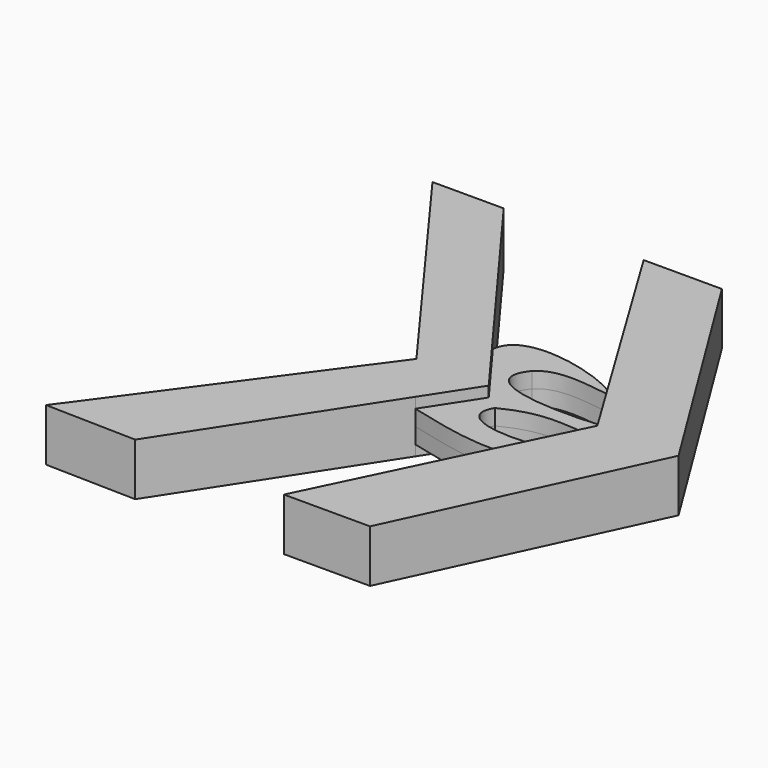
from build123d import *

# Parameters (mm, degrees)
F1_DEPTH = 6.35
F2_DEPTH = 3.81


with BuildPart() as f1:
    # F0 (on Top) → F1 (new body, symmetric)
    with BuildSketch(Plane.XY):
        Polygon((-46.712562, 58.420129), (-63.956755, 58.420129), (-21.119518, 0), (-63.956755, -58.494772), (-41.975848, -59.009422), (-11.575939, -12.254042), (-3.608476, 0), (-15.405033, 15.988192), align=None)
        Polygon((-12.845065, 58.420129), (13.556774, 15.003269), (20.028991, 4.359945), (22.680279, 0), (18.179935, -9.266904), (15.212491, -15.37733), (-5.976832, -59.009422), (14.864704, -59.009422), (42.337634, 0), (6.101783, 58.420129), align=None)
    extrude(amount=F1_DEPTH, both=True)


with BuildPart() as f2:
    # F0 (on Top) → F2 (new body, symmetric)
    with BuildSketch(Plane.XY):
        with BuildLine():
            add(Edge.make_bspline(
                [(-15.405033, 15.988192), (-14.266079, 26.961915), (11.257898, 18.783688), (13.556774, 15.003269)],
                knots=[0, 0, 0, 0, 28.97855, 28.97855, 28.97855, 28.97855], degree=3))
            Line((-15.405033, 15.988192), (-3.608476, 0))
            Line((-3.608476, 0), (-11.575939, -12.254042))
            add(Edge.make_bspline(
                [(-11.575939, -12.254042), (-2.897969, -14.484319), (7.522797, -17.089512), (15.212491, -15.37733)],
                knots=[0, 0, 0, 0, 26.969889, 26.969889, 26.969889, 26.969889], degree=3))
            Line((15.212491, -15.37733), (18.179935, -9.266904))
            add(Edge.make_bspline(
                [(18.179935, -9.266904), (4.992823, -11.358674), (-3.744616, -8.61262), (0, -2.621232)],
                knots=[0, 0, 0, 0, 19.356523, 19.356523, 19.356523, 19.356523], degree=3))
            add(Edge.make_bspline(
                [(0, -2.621232), (9.236723, 2.12195), (14.479189, 0), (22.680279, 0)],
                knots=[0, 0, 0, 0, 22.831249, 22.831249, 22.831249, 22.831249], degree=3))
            Line((22.680279, 0), (20.028991, 4.359945))
            add(Edge.make_bspline(
                [(20.028991, 4.359945), (10.235288, 3.370156), (-11.982776, 3.619797), (-3.994259, 13.605445)],
                knots=[0, 0, 0, 0, 25.740936, 25.740936, 25.740936, 25.740936], degree=3))
            add(Edge.make_bspline(
                [(-3.994259, 13.605445), (0, 17.59323), (8.23816, 15.602575), (13.556774, 15.003269)],
                knots=[0, 0, 0, 0, 17.606609, 17.606609, 17.606609, 17.606609], degree=3))
        make_face()
    extrude(amount=F2_DEPTH, both=True)


solid = Compound([f1.part, f2.part])
